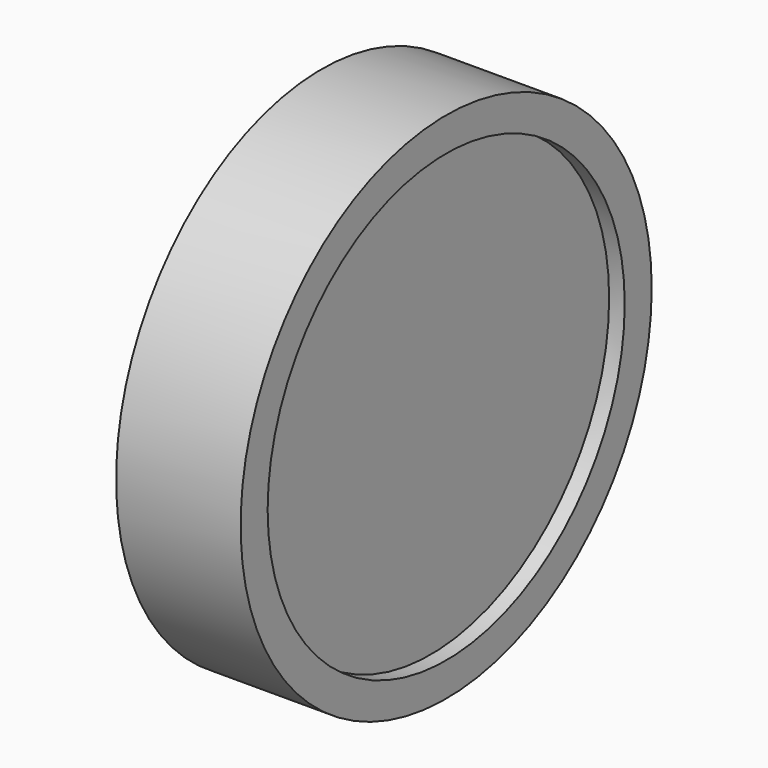
from build123d import *

# Parameters (mm, degrees)
F0_R     = 49.5
F1_DEPTH = 24
F2_R     = 43
F3_DEPTH = 3
F4_R     = 36.5
F5_DEPTH = 3


with BuildPart() as f1:
    # F0 (on Right) → F1 (new body)
    with BuildSketch(Plane.YZ):
        with Locations((-14.71213, 24.086773)):
            Circle(F0_R)
    extrude(amount=F1_DEPTH)

    # F2 (on face) → F3 (cut)
    with BuildSketch(Plane.YZ.offset(24)):
        with Locations((-14.71213, 24.086773)):
            Circle(F2_R)
    extrude(amount=-F3_DEPTH, mode=Mode.SUBTRACT)

    # F4 (on face) → F5 (cut)
    with BuildSketch(Plane(origin=(0, 0, 0), x_dir=(0, -1, 0), z_dir=(-1, 0, 0))):
        with Locations((14.71213, 24.086773)):
            Circle(F4_R)
    extrude(amount=-F5_DEPTH, mode=Mode.SUBTRACT)


solid = f1.part
